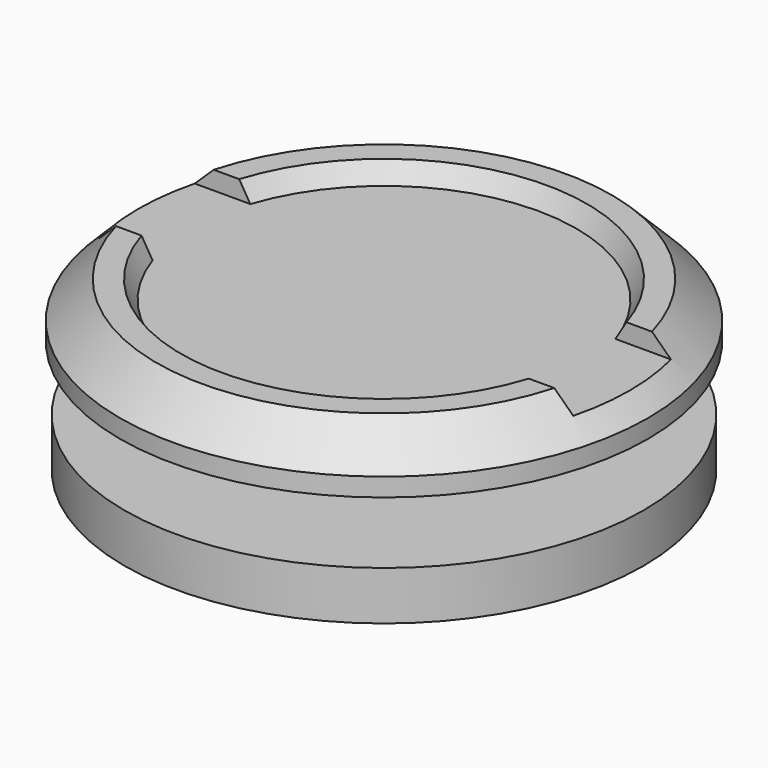
from build123d import *

# Parameters (mm, degrees)
F5_DEPTH  = 6.858
F7_DEPTH  = 6.477
F8_R      = 4.7625
F9_DEPTH  = 12.701
F10_W     = 165.1
F10_H     = 31.75
F11_DEPTH = 4.7625
F13_DEPTH = 0.508
F15_DEPTH = 0.508
F17_DEPTH = 5.953125
F18_R     = 4.7625
F19_DEPTH = 19.05
F21_DEPTH = 5.55625
F22_R     = 4.7625
F23_DEPTH = 14.2885


with BuildPart() as f1:
    # F0 (on Front) → F1 (revolve)
    with BuildSketch(Plane.XZ):
        Polygon((-59.137630657, 14.2875), (-68.662630657, 4.7625), (-68.662630657, 0), (0, 0), (0, 9.525), (-50.038, 9.525), (-52.787630657, 14.2875), align=None)
    revolve(axis=Axis((0, 0, 4.7625), (0, 0, -1)))

    # F4 (on face) → F5 (cut)
    with BuildSketch(Plane(origin=(0, 0, 0), x_dir=(1, 0, 0), z_dir=(0, 0, -1))):
        Polygon((-4.1941032955, -7.2644), (4.1941032955, -7.2644), (8.388206591, 0), (4.1941032955, 7.2644), (-4.1941032955, 7.2644), (-8.388206591, 0), align=None)
    extrude(amount=-F5_DEPTH, mode=Mode.SUBTRACT)

    # F10 (on face) → F11 (cut)
    with BuildSketch(Plane.XY.offset(14.2875)):
        Rectangle(F10_W, F10_H)
    extrude(amount=-F11_DEPTH, mode=Mode.SUBTRACT)

    # F12 (on face) → F13 (join)
    with BuildSketch(Plane(origin=(0, 0, 0), x_dir=(1, 0, 0), z_dir=(0, 0, -1))):
        with BuildLine():
            Line((-5.9736549433, 4.1821261314), (-6.6086549433, 3.0822738686))
            ThreePointArc((-6.6086549433, 3.0822738686), (-5.7412288118, 3.3147), (-5.9736549433, 4.1821261314))
        make_face()
        with BuildLine():
            Line((-0.635, -7.2644), (0.635, -7.2644))
            ThreePointArc((0.635, -7.2644), (0, -6.6294), (-0.635, -7.2644))
        make_face()
        with BuildLine():
            Line((6.6086549433, 3.0822738686), (5.9736549433, 4.1821261314))
            ThreePointArc((5.9736549433, 4.1821261314), (5.7412288118, 3.3147), (6.6086549433, 3.0822738686))
        make_face()
    extrude(amount=-F13_DEPTH)


with BuildPart() as f3:
    # F2 (on Front) → F3 (revolve)
    with BuildSketch(Plane.XZ):
        Polygon((0, -29.4575945771), (0, -16.7575945771), (-67.46875, -16.7575945771), (-67.46875, -29.4575945771), (-64.29375, -29.4575945771), (-61.9125, -27.0763445771), (-55.3085, -27.0763445771), (-53.9336846715, -29.4575945771), align=None)
    revolve(axis=Axis((0, 0, -23.1075945771), (0, 0, 1)))

    # F6 (on face) → F7 (cut)
    with BuildSketch(Plane.XY.offset(-16.7575945771)):
        Polygon((-4.1941032955, -7.2644), (4.1941032955, -7.2644), (8.388206591, 0), (4.1941032955, 7.2644), (-4.1941032955, 7.2644), (-8.388206591, 0), align=None)
    extrude(amount=-F7_DEPTH, mode=Mode.SUBTRACT)

    # F8 (on face) → F9 (cut, through all)
    with BuildSketch(Plane.XY.offset(-16.7575945771)):
        Circle(F8_R)
    extrude(amount=-F9_DEPTH, mode=Mode.SUBTRACT)

    # F14 (on face) → F15 (join)
    with BuildSketch(Plane.XY.offset(-16.7575945771)):
        with BuildLine():
            Line((-6.6086549433, -3.0822738686), (-5.9736549433, -4.1821261314))
            ThreePointArc((-5.9736549433, -4.1821261314), (-5.7412288118, -3.3147), (-6.6086549433, -3.0822738686))
        make_face()
        with BuildLine():
            Line((5.9736549433, -4.1821261314), (6.6086549433, -3.0822738686))
            ThreePointArc((6.6086549433, -3.0822738686), (5.7412288118, -3.3147), (5.9736549433, -4.1821261314))
        make_face()
        with BuildLine():
            Line((0.635, 7.2644), (-0.635, 7.2644))
            ThreePointArc((-0.635, 7.2644), (0, 6.6294), (0.635, 7.2644))
        make_face()
    extrude(amount=-F15_DEPTH)


with BuildPart() as f17:
    # F16 (on Top) → F17 (new body)
    with BuildSketch(Plane.XY):
        Polygon((-4.1244459855, -7.14375), (4.1244459855, -7.14375), (8.248891971, 0), (4.1244459855, 7.14375), (-4.1244459855, 7.14375), (-8.248891971, 0), align=None)
    extrude(amount=F17_DEPTH)

    # F18 (on face) → F19 (join)
    with BuildSketch(Plane(origin=(0, 0, 0), x_dir=(1, 0, 0), z_dir=(0, 0, -1))):
        Circle(F18_R)
    extrude(amount=F19_DEPTH)


with BuildPart() as f21:
    # F20 (on Top) → F21 (new body)
    with BuildSketch(Plane.XY):
        Polygon((7.14375, -4.1244459855), (7.14375, 4.1244459855), (0, 8.248891971), (-7.14375, 4.1244459855), (-7.14375, -4.1244459855), (0, -8.248891971), align=None)
    extrude(amount=F21_DEPTH)

    # F22 (on face) → F23 (cut, through all)
    with BuildSketch(Plane(origin=(0, 0, 0), x_dir=(1, 0, 0), z_dir=(0, 0, -1))):
        Circle(F22_R)
    extrude(amount=-F23_DEPTH, mode=Mode.SUBTRACT)


solid = Compound([f1.part, f3.part, f17.part, f21.part])
